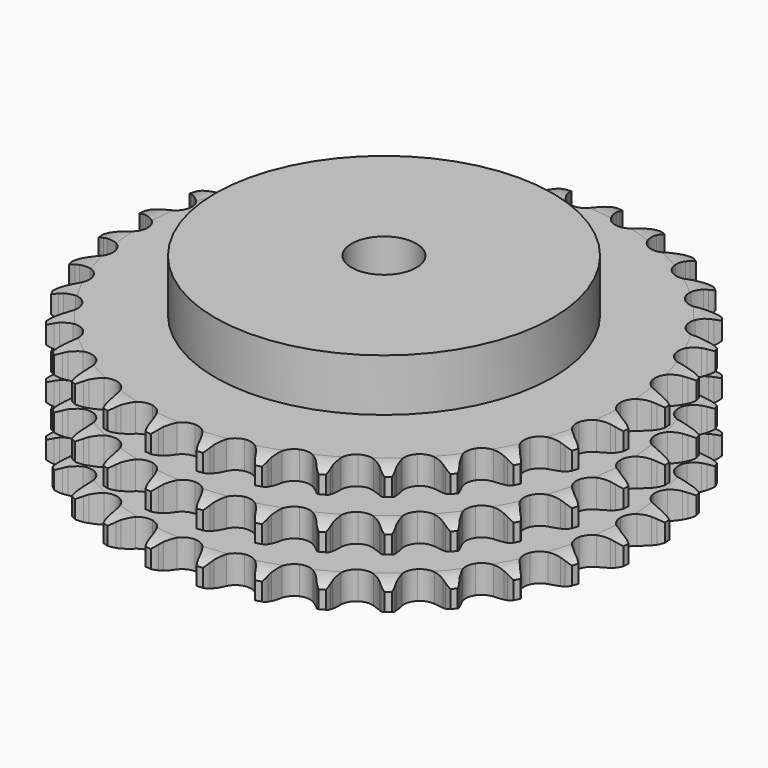
from build123d import *

# Parameters (mm, degrees)
PAD_DEPTH         = 49.8
SKETCH001_R       = 65
PAD001_DEPTH      = 70
SKETCH002_R       = 12.5
POCKET_DEPTH      = 0.001
POCKET_DEPTH_BACK = 70.001


with BuildPart() as part:
    # Sprocket → Pad (new body)
    with BuildSketch(Plane.XY):
        with BuildLine():
            ThreePointArc((-10.116851, 102.718114), (-8.649052, 100.996178), (-7.613699, 98.984326))
            Line((-7.613699, 98.984326), (-7.024915, 97.419964))
            ThreePointArc((-7.024915, 97.419964), (-6.092294, 95.391135), (-4.882294, 93.514481))
            ThreePointArc((-4.882294, 93.514481), (-2.729224, 91.717825), (0, 91.073606))
            ThreePointArc((0, 91.073606), (2.729224, 91.717825), (4.882294, 93.514481))
            ThreePointArc((4.882294, 93.514481), (6.092294, 95.391135), (7.024915, 97.419964))
            Line((7.024915, 97.419964), (7.613699, 98.984326))
            ThreePointArc((7.613699, 98.984326), (8.649052, 100.996178), (10.116851, 102.718114))
            ThreePointArc((10.116851, 102.718114), (11.220514, 100.742911), (11.84348, 98.567729))
            Line((11.84348, 98.567729), (12.115759, 96.918559))
            ThreePointArc((12.115759, 96.918559), (12.634655, 94.746768), (13.455288, 92.670115))
            ThreePointArc((13.455288, 92.670115), (15.216477, 90.487938), (17.767579, 89.323652))
            ThreePointArc((17.767579, 89.323652), (20.570043, 89.423047), (23.032252, 90.765139))
            Line((23.032252, 90.765139), (25.895625, 94.177574))
            ThreePointArc((25.895625, 94.177574), (26.318124, 94.899003), (26.778288, 95.597011))
            ThreePointArc((26.778288, 95.597011), (28.186239, 97.368218), (29.961769, 98.770715))
            ThreePointArc((29.961769, 98.770715), (30.658882, 96.61815), (30.845521, 94.363229))
            Line((30.845521, 94.363229), (30.790831, 92.692629))
            ThreePointArc((30.790831, 92.692629), (30.876061, 90.461337), (31.275791, 88.264488))
            ThreePointArc((31.275791, 88.264488), (32.577417, 85.78065), (34.85236, 84.141041))
            ThreePointArc((34.85236, 84.141041), (37.620367, 83.691792), (40.297094, 84.527742))
            Line((40.297094, 84.527742), (43.771181, 87.315992))
            ThreePointArc((43.771181, 87.315992), (44.326306, 87.941134), (44.913802, 88.535956))
            ThreePointArc((44.913802, 88.535956), (46.640246, 89.998453), (48.655272, 91.027612))
            ThreePointArc((48.655272, 91.027612), (48.919046, 88.780408), (48.662186, 86.532404))
            Line((48.662186, 86.532404), (48.282629, 84.904573))
            ThreePointArc((48.282629, 84.904573), (47.930918, 82.699527), (47.894383, 80.466907))
            ThreePointArc((47.894383, 80.466907), (48.686426, 77.77686), (50.597785, 75.724936))
            ThreePointArc((50.597785, 75.724936), (53.22496, 74.744308), (56.013341, 75.041992))
            Line((56.013341, 75.041992), (59.964635, 77.098906))
            ThreePointArc((59.964635, 77.098906), (60.631053, 77.603736), (61.323305, 78.072515))
            ThreePointArc((61.323305, 78.072515), (63.301894, 79.170097), (65.478981, 79.786369))
            ThreePointArc((65.478981, 79.786369), (65.299279, 77.530885), (64.60879, 75.376186))
            Line((64.60879, 75.376186), (63.918952, 73.853682))
            ThreePointArc((63.918952, 73.853682), (63.143816, 71.759621), (62.672421, 69.577027))
            ThreePointArc((62.672421, 69.577027), (62.924443, 66.784149), (64.398765, 64.398765))
            ThreePointArc((64.398765, 64.398765), (66.784149, 62.924443), (69.577027, 62.672421))
            Line((69.577027, 62.672421), (73.853682, 63.918952))
            ThreePointArc((73.853682, 63.918952), (74.605782, 64.284071), (75.376186, 64.60879))
            ThreePointArc((75.376186, 64.60879), (77.530885, 65.299279), (79.786369, 65.478981))
            ThreePointArc((79.786369, 65.478981), (79.170097, 63.301894), (78.072515, 61.323305))
            Line((78.072515, 61.323305), (77.098906, 59.964635))
            ThreePointArc((77.098906, 59.964635), (75.930133, 58.062032), (75.041992, 56.013341))
            ThreePointArc((75.041992, 56.013341), (74.744308, 53.22496), (75.724936, 50.597785))
            ThreePointArc((75.724936, 50.597785), (77.77686, 48.686426), (80.466907, 47.894383))
            Line((80.466907, 47.894383), (84.904573, 48.282629))
            ThreePointArc((84.904573, 48.282629), (85.713453, 48.494004), (86.532404, 48.662186))
            ThreePointArc((86.532404, 48.662186), (88.780408, 48.919046), (91.027612, 48.655272))
            ThreePointArc((91.027612, 48.655272), (89.998453, 46.640246), (88.535956, 44.913802))
            Line((88.535956, 44.913802), (87.315992, 43.771181))
            ThreePointArc((87.315992, 43.771181), (85.798497, 42.133153), (84.527742, 40.297094))
            ThreePointArc((84.527742, 40.297094), (83.691792, 37.620367), (84.141041, 34.85236))
            ThreePointArc((84.141041, 34.85236), (85.78065, 32.577417), (88.264488, 31.275791))
            Line((88.264488, 31.275791), (92.692629, 30.790831))
            ThreePointArc((92.692629, 30.790831), (93.527204, 30.84034), (94.363229, 30.845521))
            ThreePointArc((94.363229, 30.845521), (96.61815, 30.658882), (98.770715, 29.961769))
            ThreePointArc((98.770715, 29.961769), (97.368218, 28.186239), (95.597011, 26.778288))
            Line((95.597011, 26.778288), (94.177574, 25.895625))
            ThreePointArc((94.177574, 25.895625), (92.369673, 24.585119), (90.765139, 23.032252))
            ThreePointArc((90.765139, 23.032252), (89.423047, 20.570043), (89.323652, 17.767579))
            ThreePointArc((89.323652, 17.767579), (90.487938, 15.216477), (92.670115, 13.455288))
            Line((92.670115, 13.455288), (96.918559, 12.115759))
            ThreePointArc((96.918559, 12.115759), (97.746757, 12.0015), (98.567729, 11.84348))
            ThreePointArc((98.567729, 11.84348), (100.742911, 11.220514), (102.718114, 10.116851))
            ThreePointArc((102.718114, 10.116851), (100.996178, 8.649052), (98.984326, 7.613699))
            Line((98.984326, 7.613699), (97.419964, 7.024915))
            ThreePointArc((97.419964, 7.024915), (95.391135, 6.092294), (93.514481, 4.882294))
            ThreePointArc((93.514481, 4.882294), (91.717825, 2.729224), (91.073606, 0))
            ThreePointArc((91.073606, 0), (91.717825, -2.729224), (93.514481, -4.882294))
            Line((93.514481, -4.882294), (97.419964, -7.024915))
            ThreePointArc((97.419964, -7.024915), (98.209956, -7.298552), (98.984326, -7.613699))
            ThreePointArc((98.984326, -7.613699), (100.996178, -8.649052), (102.718114, -10.116851))
            ThreePointArc((102.718114, -10.116851), (100.742911, -11.220514), (98.567729, -11.84348))
            Line((98.567729, -11.84348), (96.918559, -12.115759))
            ThreePointArc((96.918559, -12.115759), (94.746768, -12.634655), (92.670115, -13.455288))
            ThreePointArc((92.670115, -13.455288), (90.487938, -15.216477), (89.323652, -17.767579))
            ThreePointArc((89.323652, -17.767579), (89.423047, -20.570043), (90.765139, -23.032252))
            Line((90.765139, -23.032252), (94.177574, -25.895625))
            ThreePointArc((94.177574, -25.895625), (94.899003, -26.318124), (95.597011, -26.778288))
            ThreePointArc((95.597011, -26.778288), (97.368218, -28.186239), (98.770715, -29.961769))
            ThreePointArc((98.770715, -29.961769), (96.61815, -30.658882), (94.363229, -30.845521))
            Line((94.363229, -30.845521), (92.692629, -30.790831))
            ThreePointArc((92.692629, -30.790831), (90.461337, -30.876061), (88.264488, -31.275791))
            ThreePointArc((88.264488, -31.275791), (85.78065, -32.577417), (84.141041, -34.85236))
            ThreePointArc((84.141041, -34.85236), (83.691792, -37.620367), (84.527742, -40.297094))
            Line((84.527742, -40.297094), (87.315992, -43.771181))
            ThreePointArc((87.315992, -43.771181), (87.941134, -44.326306), (88.535956, -44.913802))
            ThreePointArc((88.535956, -44.913802), (89.998453, -46.640246), (91.027612, -48.655272))
            ThreePointArc((91.027612, -48.655272), (88.780408, -48.919046), (86.532404, -48.662186))
            Line((86.532404, -48.662186), (84.904573, -48.282629))
            ThreePointArc((84.904573, -48.282629), (82.699527, -47.930918), (80.466907, -47.894383))
            ThreePointArc((80.466907, -47.894383), (77.77686, -48.686426), (75.724936, -50.597785))
            ThreePointArc((75.724936, -50.597785), (74.744308, -53.22496), (75.041992, -56.013341))
            Line((75.041992, -56.013341), (77.098906, -59.964635))
            ThreePointArc((77.098906, -59.964635), (77.603736, -60.631053), (78.072515, -61.323305))
            ThreePointArc((78.072515, -61.323305), (79.170097, -63.301894), (79.786369, -65.478981))
            ThreePointArc((79.786369, -65.478981), (77.530885, -65.299279), (75.376186, -64.60879))
            Line((75.376186, -64.60879), (73.853682, -63.918952))
            ThreePointArc((73.853682, -63.918952), (71.759621, -63.143816), (69.577027, -62.672421))
            ThreePointArc((69.577027, -62.672421), (66.784149, -62.924443), (64.398765, -64.398765))
            ThreePointArc((64.398765, -64.398765), (62.924443, -66.784149), (62.672421, -69.577027))
            Line((62.672421, -69.577027), (63.918952, -73.853682))
            ThreePointArc((63.918952, -73.853682), (64.284071, -74.605782), (64.60879, -75.376186))
            ThreePointArc((64.60879, -75.376186), (65.299279, -77.530885), (65.478981, -79.786369))
            ThreePointArc((65.478981, -79.786369), (63.301894, -79.170097), (61.323305, -78.072515))
            Line((61.323305, -78.072515), (59.964635, -77.098906))
            ThreePointArc((59.964635, -77.098906), (58.062032, -75.930133), (56.013341, -75.041992))
            ThreePointArc((56.013341, -75.041992), (53.22496, -74.744308), (50.597785, -75.724936))
            ThreePointArc((50.597785, -75.724936), (48.686426, -77.77686), (47.894383, -80.466907))
            Line((47.894383, -80.466907), (48.282629, -84.904573))
            ThreePointArc((48.282629, -84.904573), (48.494004, -85.713453), (48.662186, -86.532404))
            ThreePointArc((48.662186, -86.532404), (48.919046, -88.780408), (48.655272, -91.027612))
            ThreePointArc((48.655272, -91.027612), (46.640246, -89.998453), (44.913802, -88.535956))
            Line((44.913802, -88.535956), (43.771181, -87.315992))
            ThreePointArc((43.771181, -87.315992), (42.133153, -85.798497), (40.297094, -84.527742))
            ThreePointArc((40.297094, -84.527742), (37.620367, -83.691792), (34.85236, -84.141041))
            ThreePointArc((34.85236, -84.141041), (32.577417, -85.78065), (31.275791, -88.264488))
            Line((31.275791, -88.264488), (30.790831, -92.692629))
            ThreePointArc((30.790831, -92.692629), (30.84034, -93.527204), (30.845521, -94.363229))
            ThreePointArc((30.845521, -94.363229), (30.658882, -96.61815), (29.961769, -98.770715))
            ThreePointArc((29.961769, -98.770715), (28.186239, -97.368218), (26.778288, -95.597011))
            Line((26.778288, -95.597011), (25.895625, -94.177574))
            ThreePointArc((25.895625, -94.177574), (24.585119, -92.369673), (23.032252, -90.765139))
            ThreePointArc((23.032252, -90.765139), (20.570043, -89.423047), (17.767579, -89.323652))
            ThreePointArc((17.767579, -89.323652), (15.216477, -90.487938), (13.455288, -92.670115))
            Line((13.455288, -92.670115), (12.115759, -96.918559))
            ThreePointArc((12.115759, -96.918559), (12.0015, -97.746757), (11.84348, -98.567729))
            ThreePointArc((11.84348, -98.567729), (11.220514, -100.742911), (10.116851, -102.718114))
            ThreePointArc((10.116851, -102.718114), (8.649052, -100.996178), (7.613699, -98.984326))
            Line((7.613699, -98.984326), (7.024915, -97.419964))
            ThreePointArc((7.024915, -97.419964), (6.092294, -95.391135), (4.882294, -93.514481))
            ThreePointArc((4.882294, -93.514481), (2.729224, -91.717825), (0, -91.073606))
            ThreePointArc((0, -91.073606), (-2.729224, -91.717825), (-4.882294, -93.514481))
            Line((-4.882294, -93.514481), (-7.024915, -97.419964))
            ThreePointArc((-7.024915, -97.419964), (-7.298552, -98.209956), (-7.613699, -98.984326))
            ThreePointArc((-7.613699, -98.984326), (-8.649052, -100.996178), (-10.116851, -102.718114))
            ThreePointArc((-10.116851, -102.718114), (-11.220514, -100.742911), (-11.84348, -98.567729))
            Line((-11.84348, -98.567729), (-12.115759, -96.918559))
            ThreePointArc((-12.115759, -96.918559), (-12.634655, -94.746768), (-13.455288, -92.670115))
            ThreePointArc((-13.455288, -92.670115), (-15.216477, -90.487938), (-17.767579, -89.323652))
            ThreePointArc((-17.767579, -89.323652), (-20.570043, -89.423047), (-23.032252, -90.765139))
            Line((-23.032252, -90.765139), (-25.895625, -94.177574))
            ThreePointArc((-25.895625, -94.177574), (-26.318124, -94.899003), (-26.778288, -95.597011))
            ThreePointArc((-26.778288, -95.597011), (-28.186239, -97.368218), (-29.961769, -98.770715))
            ThreePointArc((-29.961769, -98.770715), (-30.658882, -96.61815), (-30.845521, -94.363229))
            Line((-30.845521, -94.363229), (-30.790831, -92.692629))
            ThreePointArc((-30.790831, -92.692629), (-30.876061, -90.461337), (-31.275791, -88.264488))
            ThreePointArc((-31.275791, -88.264488), (-32.577417, -85.78065), (-34.85236, -84.141041))
            ThreePointArc((-34.85236, -84.141041), (-37.620367, -83.691792), (-40.297094, -84.527742))
            Line((-40.297094, -84.527742), (-43.771181, -87.315992))
            ThreePointArc((-43.771181, -87.315992), (-44.326306, -87.941134), (-44.913802, -88.535956))
            ThreePointArc((-44.913802, -88.535956), (-46.640246, -89.998453), (-48.655272, -91.027612))
            ThreePointArc((-48.655272, -91.027612), (-48.919046, -88.780408), (-48.662186, -86.532404))
            Line((-48.662186, -86.532404), (-48.282629, -84.904573))
            ThreePointArc((-48.282629, -84.904573), (-47.930918, -82.699527), (-47.894383, -80.466907))
            ThreePointArc((-47.894383, -80.466907), (-48.686426, -77.77686), (-50.597785, -75.724936))
            ThreePointArc((-50.597785, -75.724936), (-53.22496, -74.744308), (-56.013341, -75.041992))
            Line((-56.013341, -75.041992), (-59.964635, -77.098906))
            ThreePointArc((-59.964635, -77.098906), (-60.631053, -77.603736), (-61.323305, -78.072515))
            ThreePointArc((-61.323305, -78.072515), (-63.301894, -79.170097), (-65.478981, -79.786369))
            ThreePointArc((-65.478981, -79.786369), (-65.299279, -77.530885), (-64.60879, -75.376186))
            Line((-64.60879, -75.376186), (-63.918952, -73.853682))
            ThreePointArc((-63.918952, -73.853682), (-63.143816, -71.759621), (-62.672421, -69.577027))
            ThreePointArc((-62.672421, -69.577027), (-62.924443, -66.784149), (-64.398765, -64.398765))
            ThreePointArc((-64.398765, -64.398765), (-66.784149, -62.924443), (-69.577027, -62.672421))
            Line((-69.577027, -62.672421), (-73.853682, -63.918952))
            ThreePointArc((-73.853682, -63.918952), (-74.605782, -64.284071), (-75.376186, -64.60879))
            ThreePointArc((-75.376186, -64.60879), (-77.530885, -65.299279), (-79.786369, -65.478981))
            ThreePointArc((-79.786369, -65.478981), (-79.170097, -63.301894), (-78.072515, -61.323305))
            Line((-78.072515, -61.323305), (-77.098906, -59.964635))
            ThreePointArc((-77.098906, -59.964635), (-75.930133, -58.062032), (-75.041992, -56.013341))
            ThreePointArc((-75.041992, -56.013341), (-74.744308, -53.22496), (-75.724936, -50.597785))
            ThreePointArc((-75.724936, -50.597785), (-77.77686, -48.686426), (-80.466907, -47.894383))
            Line((-80.466907, -47.894383), (-84.904573, -48.282629))
            ThreePointArc((-84.904573, -48.282629), (-85.713453, -48.494004), (-86.532404, -48.662186))
            ThreePointArc((-86.532404, -48.662186), (-88.780408, -48.919046), (-91.027612, -48.655272))
            ThreePointArc((-91.027612, -48.655272), (-89.998453, -46.640246), (-88.535956, -44.913802))
            Line((-88.535956, -44.913802), (-87.315992, -43.771181))
            ThreePointArc((-87.315992, -43.771181), (-85.798497, -42.133153), (-84.527742, -40.297094))
            ThreePointArc((-84.527742, -40.297094), (-83.691792, -37.620367), (-84.141041, -34.85236))
            ThreePointArc((-84.141041, -34.85236), (-85.78065, -32.577417), (-88.264488, -31.275791))
            Line((-88.264488, -31.275791), (-92.692629, -30.790831))
            ThreePointArc((-92.692629, -30.790831), (-93.527204, -30.84034), (-94.363229, -30.845521))
            ThreePointArc((-94.363229, -30.845521), (-96.61815, -30.658882), (-98.770715, -29.961769))
            ThreePointArc((-98.770715, -29.961769), (-97.368218, -28.186239), (-95.597011, -26.778288))
            Line((-95.597011, -26.778288), (-94.177574, -25.895625))
            ThreePointArc((-94.177574, -25.895625), (-92.369673, -24.585119), (-90.765139, -23.032252))
            ThreePointArc((-90.765139, -23.032252), (-89.423047, -20.570043), (-89.323652, -17.767579))
            ThreePointArc((-89.323652, -17.767579), (-90.487938, -15.216477), (-92.670115, -13.455288))
            Line((-92.670115, -13.455288), (-96.918559, -12.115759))
            ThreePointArc((-96.918559, -12.115759), (-97.746757, -12.0015), (-98.567729, -11.84348))
            ThreePointArc((-98.567729, -11.84348), (-100.742911, -11.220514), (-102.718114, -10.116851))
            ThreePointArc((-102.718114, -10.116851), (-100.996178, -8.649052), (-98.984326, -7.613699))
            Line((-98.984326, -7.613699), (-97.419964, -7.024915))
            ThreePointArc((-97.419964, -7.024915), (-95.391135, -6.092294), (-93.514481, -4.882294))
            ThreePointArc((-93.514481, -4.882294), (-91.717825, -2.729224), (-91.073606, 0))
            ThreePointArc((-91.073606, 0), (-91.717825, 2.729224), (-93.514481, 4.882294))
            Line((-93.514481, 4.882294), (-97.419964, 7.024915))
            ThreePointArc((-97.419964, 7.024915), (-98.209956, 7.298552), (-98.984326, 7.613699))
            ThreePointArc((-98.984326, 7.613699), (-100.996178, 8.649052), (-102.718114, 10.116851))
            ThreePointArc((-102.718114, 10.116851), (-100.742911, 11.220514), (-98.567729, 11.84348))
            Line((-98.567729, 11.84348), (-96.918559, 12.115759))
            ThreePointArc((-96.918559, 12.115759), (-94.746768, 12.634655), (-92.670115, 13.455288))
            ThreePointArc((-92.670115, 13.455288), (-90.487938, 15.216477), (-89.323652, 17.767579))
            ThreePointArc((-89.323652, 17.767579), (-89.423047, 20.570043), (-90.765139, 23.032252))
            Line((-90.765139, 23.032252), (-94.177574, 25.895625))
            ThreePointArc((-94.177574, 25.895625), (-94.899003, 26.318124), (-95.597011, 26.778288))
            ThreePointArc((-95.597011, 26.778288), (-97.368218, 28.186239), (-98.770715, 29.961769))
            ThreePointArc((-98.770715, 29.961769), (-96.61815, 30.658882), (-94.363229, 30.845521))
            Line((-94.363229, 30.845521), (-92.692629, 30.790831))
            ThreePointArc((-92.692629, 30.790831), (-90.461337, 30.876061), (-88.264488, 31.275791))
            ThreePointArc((-88.264488, 31.275791), (-85.78065, 32.577417), (-84.141041, 34.85236))
            ThreePointArc((-84.141041, 34.85236), (-83.691792, 37.620367), (-84.527742, 40.297094))
            Line((-84.527742, 40.297094), (-87.315992, 43.771181))
            ThreePointArc((-87.315992, 43.771181), (-87.941134, 44.326306), (-88.535956, 44.913802))
            ThreePointArc((-88.535956, 44.913802), (-89.998453, 46.640246), (-91.027612, 48.655272))
            ThreePointArc((-91.027612, 48.655272), (-88.780408, 48.919046), (-86.532404, 48.662186))
            Line((-86.532404, 48.662186), (-84.904573, 48.282629))
            ThreePointArc((-84.904573, 48.282629), (-82.699527, 47.930918), (-80.466907, 47.894383))
            ThreePointArc((-80.466907, 47.894383), (-77.77686, 48.686426), (-75.724936, 50.597785))
            ThreePointArc((-75.724936, 50.597785), (-74.744308, 53.22496), (-75.041992, 56.013341))
            Line((-75.041992, 56.013341), (-77.098906, 59.964635))
            ThreePointArc((-77.098906, 59.964635), (-77.603736, 60.631053), (-78.072515, 61.323305))
            ThreePointArc((-78.072515, 61.323305), (-79.170097, 63.301894), (-79.786369, 65.478981))
            ThreePointArc((-79.786369, 65.478981), (-77.530885, 65.299279), (-75.376186, 64.60879))
            Line((-75.376186, 64.60879), (-73.853682, 63.918952))
            ThreePointArc((-73.853682, 63.918952), (-71.759621, 63.143816), (-69.577027, 62.672421))
            ThreePointArc((-69.577027, 62.672421), (-66.784149, 62.924443), (-64.398765, 64.398765))
            ThreePointArc((-64.398765, 64.398765), (-62.924443, 66.784149), (-62.672421, 69.577027))
            Line((-62.672421, 69.577027), (-63.918952, 73.853682))
            ThreePointArc((-63.918952, 73.853682), (-64.284071, 74.605782), (-64.60879, 75.376186))
            ThreePointArc((-64.60879, 75.376186), (-65.299279, 77.530885), (-65.478981, 79.786369))
            ThreePointArc((-65.478981, 79.786369), (-63.301894, 79.170097), (-61.323305, 78.072515))
            Line((-61.323305, 78.072515), (-59.964635, 77.098906))
            ThreePointArc((-59.964635, 77.098906), (-58.062032, 75.930133), (-56.013341, 75.041992))
            ThreePointArc((-56.013341, 75.041992), (-53.22496, 74.744308), (-50.597785, 75.724936))
            ThreePointArc((-50.597785, 75.724936), (-48.686426, 77.77686), (-47.894383, 80.466907))
            Line((-47.894383, 80.466907), (-48.282629, 84.904573))
            ThreePointArc((-48.282629, 84.904573), (-48.494004, 85.713453), (-48.662186, 86.532404))
            ThreePointArc((-48.662186, 86.532404), (-48.919046, 88.780408), (-48.655272, 91.027612))
            ThreePointArc((-48.655272, 91.027612), (-46.640246, 89.998453), (-44.913802, 88.535956))
            Line((-44.913802, 88.535956), (-43.771181, 87.315992))
            ThreePointArc((-43.771181, 87.315992), (-42.133153, 85.798497), (-40.297094, 84.527742))
            ThreePointArc((-40.297094, 84.527742), (-37.620367, 83.691792), (-34.85236, 84.141041))
            ThreePointArc((-34.85236, 84.141041), (-32.577417, 85.78065), (-31.275791, 88.264488))
            Line((-31.275791, 88.264488), (-30.790831, 92.692629))
            ThreePointArc((-30.790831, 92.692629), (-30.84034, 93.527204), (-30.845521, 94.363229))
            ThreePointArc((-30.845521, 94.363229), (-30.658882, 96.61815), (-29.961769, 98.770715))
            ThreePointArc((-29.961769, 98.770715), (-28.186239, 97.368218), (-26.778288, 95.597011))
            Line((-26.778288, 95.597011), (-25.895625, 94.177574))
            ThreePointArc((-25.895625, 94.177574), (-24.585119, 92.369673), (-23.032252, 90.765139))
            ThreePointArc((-23.032252, 90.765139), (-20.570043, 89.423047), (-17.767579, 89.323652))
            ThreePointArc((-17.767579, 89.323652), (-15.216477, 90.487938), (-13.455288, 92.670115))
            Line((-13.455288, 92.670115), (-12.115759, 96.918559))
            ThreePointArc((-12.115759, 96.918559), (-12.0015, 97.746757), (-11.84348, 98.567729))
            ThreePointArc((-11.84348, 98.567729), (-11.220514, 100.742911), (-10.116851, 102.718114))
        make_face()
    extrude(amount=PAD_DEPTH)

    # Sketch → Groove (revolve, cut)
    with BuildSketch(Plane.XZ):
        with BuildLine():
            ThreePointArc((93.164719, 0), (97.523618, 0.506758), (101.65, 2))
            Line((101.65, 2), (101.65, 8.8))
            ThreePointArc((101.65, 8.8), (97.523618, 10.293242), (93.164719, 10.8))
            Line((65, 10.8), (93.164719, 10.8))
            Line((65, 10.8), (65, 19.5))
            Line((65, 19.5), (93.164719, 19.5))
            ThreePointArc((93.164719, 19.5), (97.523618, 20.006758), (101.65, 21.5))
            Line((101.65, 28.3), (101.65, 21.5))
            ThreePointArc((101.65, 28.3), (97.523618, 29.793242), (93.164719, 30.3))
            Line((65, 30.3), (93.164719, 30.3))
            Line((65, 39), (65, 30.3))
            Line((93.164719, 39), (65, 39))
            ThreePointArc((93.164719, 39), (97.523618, 39.506758), (101.65, 41))
            Line((101.65, 41), (101.65, 47.8))
            ThreePointArc((101.65, 47.8), (97.523618, 49.293242), (93.164719, 49.8))
            Line((93.164719, 49.8), (111.65, 49.8))
            Line((111.65, 49.8), (111.65, 0))
            Line((93.164719, 0), (111.65, 0))
        make_face()
    revolve(axis=Axis((0, 0, 0), (0, 0, 1)), mode=Mode.SUBTRACT)

    # Sketch001 → Pad001 (join)
    with BuildSketch(Plane.XY):
        Circle(SKETCH001_R)
    extrude(amount=PAD001_DEPTH)

    # Sketch002 → Pocket (cut, two sides)
    with BuildSketch(Plane.XY) as pocket_sk:
        Circle(SKETCH002_R)
    extrude(amount=-POCKET_DEPTH, mode=Mode.SUBTRACT)
    extrude(pocket_sk.sketch, amount=POCKET_DEPTH_BACK, mode=Mode.SUBTRACT)


solid = part.part
